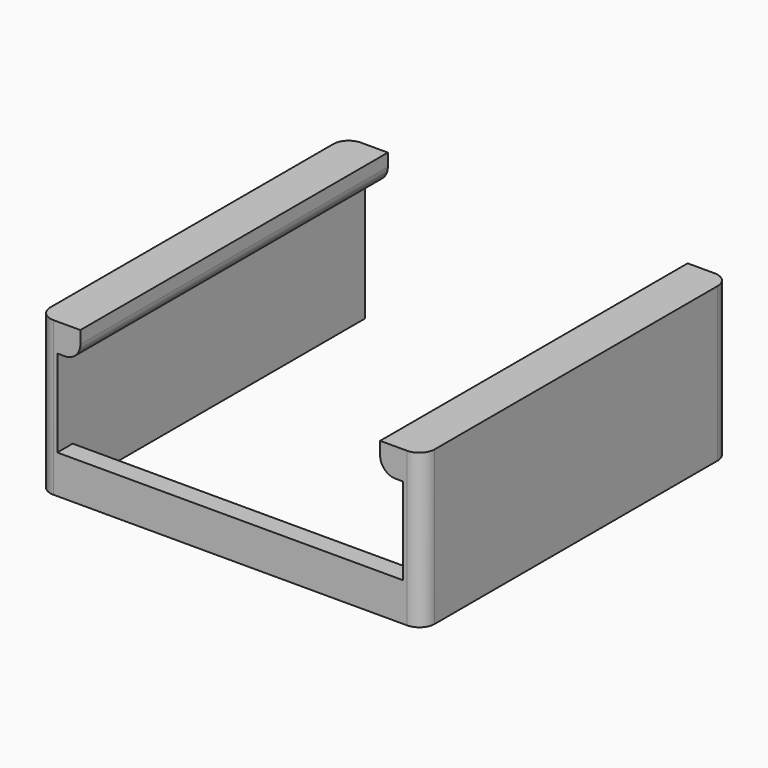
from build123d import *

# Parameters (mm, degrees)
F1_DEPTH = 20
F0_W     = 45
F0_H     = 2.5
F2_DEPTH = 5
F3_W     = 50
F3_H     = 3.6935736239
F4_DEPTH = 3
F5_W     = 50
F5_H     = 3.6542420089
F6_DEPTH = 3
F7_R     = 2
F8_R     = 2


with BuildPart() as f1:
    # F0 (on Top) → F1 (new body)
    with BuildSketch(Plane.XY):
        Polygon((-38.4935630233, 31.5391468816), (-40.9935630233, 31.5391468816), (-40.9935630233, -18.4608531184), (-38.4935630233, -18.4608531184), (-38.4935630233, -15.9608531184), align=None)
    extrude(amount=F1_DEPTH)



with BuildPart() as f1b:
    # F0 (on Top) → F1, piece 2 (new body)
    with BuildSketch(Plane.XY):
        Polygon((6.5064369767, -15.9608531184), (6.5064369767, -18.4608531184), (9.0064369767, -18.4608531184), (9.0064369767, 31.5391468816), (6.5064369767, 31.5391468816), align=None)
    extrude(amount=F1_DEPTH)


with BuildPart() as f1_1:
    add(f1.part)

    add(f1b.part)  # F2 merges F1b
    # F0 (on Top) → F2 (join)
    with BuildSketch(Plane.XY):
        with Locations((-15.9935630233, -17.2108531184)):
            Rectangle(F0_W, F0_H)
    extrude(amount=F2_DEPTH)

    # F3 (on face) → F4 (join)
    with BuildSketch(Plane(origin=(6.5064369767, 0, 0), x_dir=(0, -1, 0), z_dir=(-1, 0, 0))):
        with Locations((-6.5391468816, 18.1532131881)):
            Rectangle(F3_W, F3_H)
    extrude(amount=F4_DEPTH)

    # F5 (on face) → F6 (join)
    with BuildSketch(Plane.YZ.offset(-38.4935630233)):
        with Locations((6.5391468816, 18.1728789955)):
            Rectangle(F5_W, F5_H)
    extrude(amount=F6_DEPTH)

    # F7
    f7_edges = [f1_1.edges().sort_by_distance(p)[0] for p in [
        (3.506437, 6.539147, 16.306426),
        (-35.493563, 6.539147, 16.345758),
    ]]
    fillet(f7_edges, radius=F7_R)

    # F8
    f8_edges = [f1_1.edges().sort_by_distance(p)[0] for p in [
        (-40.993563, -18.460853, 10),
        (9.006437, -18.460853, 10),
        (9.006437, 31.539147, 10),
        (-40.993563, 31.539147, 10),
    ]]
    fillet(f8_edges, radius=F8_R)


solid = f1_1.part
